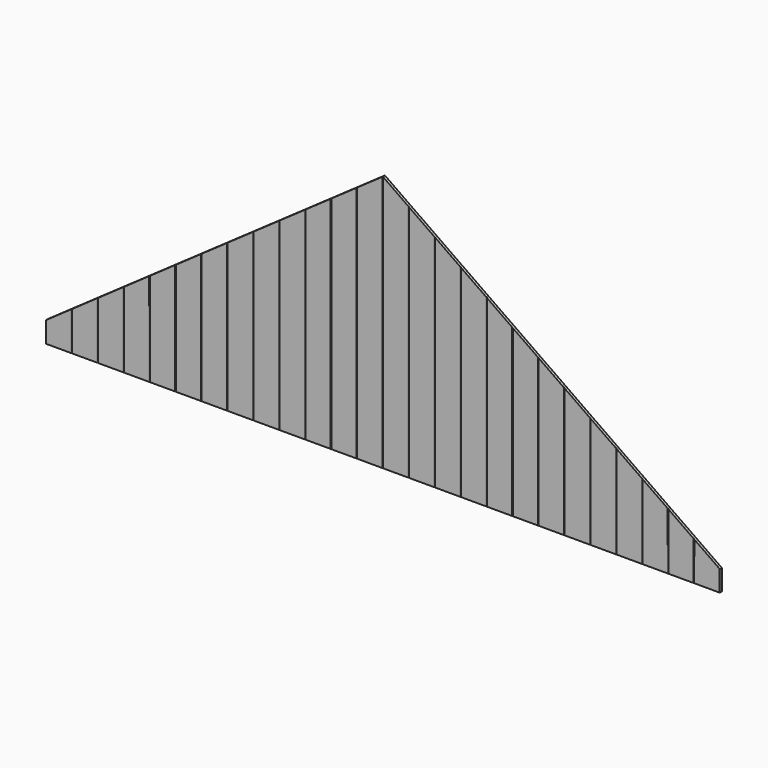
from build123d import *

# Parameters (mm, degrees)
F0_W      = 127
F0_H      = 1524
F1_DEPTH  = 12.7
F2_R      = 2.54
F10_DEPTH = 12.7


with BuildPart() as f1:
    # F0 (on Front) → F1 (new body)
    with BuildSketch(Plane.XZ):
        with Locations((63.5, 762)):
            Rectangle(F0_W, F0_H)
    extrude(amount=F1_DEPTH)

    # F2
    f2_edges = [f1.edges().sort_by_distance(p)[0] for p in [
        (0, -12.7, 762),
        (127, -12.7, 762),
    ]]
    fillet(f2_edges, radius=F2_R)


with BuildPart() as f3_1:
    # F3: instance of F1
    add(f1.part.mirror(Plane(origin=(127, -5.08, 762), x_dir=(0, 1, 0), z_dir=(1, 0, 0))))



with BuildPart() as f3_1_1:
    add(f3_1.part)
    # F4: F1, F3_1 across face
    add(f1.part.mirror(Plane(origin=(254, -5.08, 762), x_dir=(0, 1, 0), z_dir=(1, 0, 0))))
    add(f3_1.part.mirror(Plane(origin=(254, -5.08, 762), x_dir=(0, 1, 0), z_dir=(1, 0, 0))))


with BuildPart() as f5_1:
    # F5: instance of F1
    add(f1.part.mirror(Plane(origin=(508, -5.08, 762), x_dir=(0, 1, 0), z_dir=(1, 0, 0))))



with BuildPart() as f5_2:
    # F5: instance of F3_1
    add(f3_1_1.part.mirror(Plane(origin=(508, -5.08, 762), x_dir=(0, 1, 0), z_dir=(1, 0, 0))))


with BuildPart() as f5_1_1:
    add(f5_1.part)
    # F6: F5_2, F5_1 across face
    add(f5_2.part.mirror(Plane(origin=(1016, -5.08, 762), x_dir=(0, 1, 0), z_dir=(1, 0, 0))))
    add(f5_1.part.mirror(Plane(origin=(1016, -5.08, 762), x_dir=(0, 1, 0), z_dir=(1, 0, 0))))



with BuildPart() as f1_1:
    add(f1.part)

    # F7: F1 across face
    add(f1.part.mirror(Plane(origin=(0, -5.08, 762), x_dir=(0, -1, 0), z_dir=(-1, 0, 0))))


with BuildPart() as f5_1_2:
    add(f5_1_1.part)
    # F8: F1, F3_1, F5_2, F5_1 across face
    add(f1_1.part.mirror(Plane(origin=(1524, -5.08, 762), x_dir=(0, 1, 0), z_dir=(1, 0, 0))))
    add(f3_1_1.part.mirror(Plane(origin=(1524, -5.08, 762), x_dir=(0, 1, 0), z_dir=(1, 0, 0))))
    add(f5_2.part.mirror(Plane(origin=(1524, -5.08, 762), x_dir=(0, 1, 0), z_dir=(1, 0, 0))))
    add(f5_1_1.part.mirror(Plane(origin=(1524, -5.08, 762), x_dir=(0, 1, 0), z_dir=(1, 0, 0))))


with BuildPart() as f10:
    # F9 (on face) → F10 (new body)
    with BuildSketch(Plane.XZ.offset(12.7)):
        Polygon((-202.0635317546, 1586.9170427322), (-127, 101.6), (1524, 1257.6426455842), (1524, 1569.7422540038), align=None)
        Polygon((1524, 1569.7422540038), (1524, 1257.6426455842), (3175, 101.6), (3229.8866648692, 1552.7682304382), align=None)
    extrude(amount=-F10_DEPTH)


with BuildPart() as f1_2:
    add(f1_1.part)

    # F11: cut F10
    add(f10.part, mode=Mode.SUBTRACT)


with BuildPart() as f3_1_2:
    add(f3_1_1.part)

    # F11: cut F10
    add(f10.part, mode=Mode.SUBTRACT)


with BuildPart() as f5_2_1:
    add(f5_2.part)

    # F11: cut F10
    add(f10.part, mode=Mode.SUBTRACT)


with BuildPart() as f5_1_3:
    add(f5_1_2.part)

    # F11: cut F10
    add(f10.part, mode=Mode.SUBTRACT)


solid = Compound([f1_2.part, f3_1_2.part, f5_2_1.part, f5_1_3.part])
